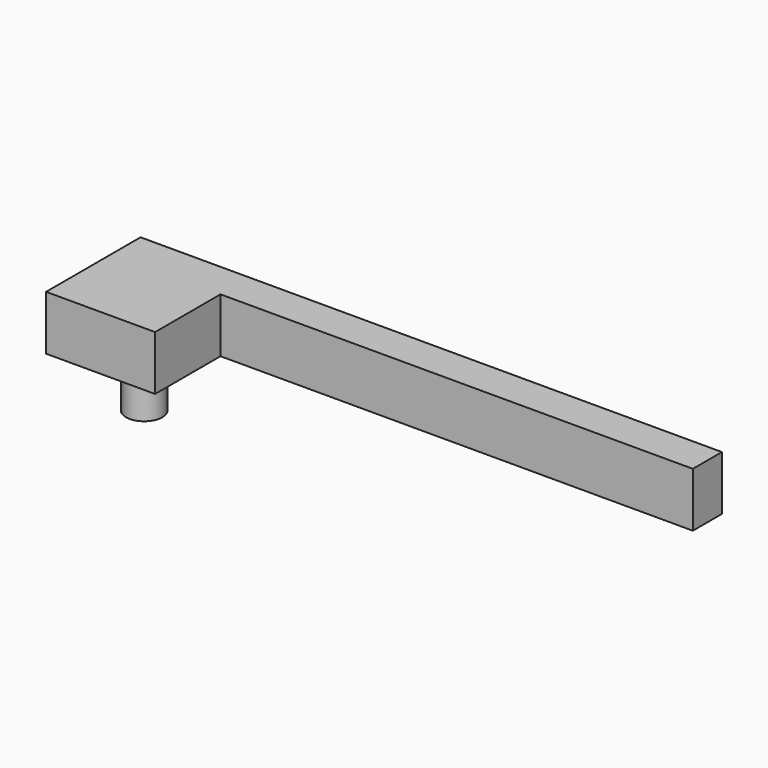
from build123d import *

# Parameters (mm, degrees)
F0_R     = 5
F0_W     = 130
F0_H     = 10
F1_DEPTH = 15
F2_DEPTH = 15


with BuildPart() as f1:
    # F0 (on Top) → F1 (new body)
    with BuildSketch(Plane.XY):
        Polygon((0, 32.5), (0, 0), (30, 0), (30, 22.5), (30, 32.5), align=None)
        with Locations((15, 15)):
            Circle(F0_R, mode=Mode.SUBTRACT)
        with Locations((95, 27.5)):
            Rectangle(F0_W, F0_H)
        with Locations((15, 15)):
            Circle(F0_R)
    extrude(amount=F1_DEPTH)

    # F0 (on Top) → F2 (join)
    with BuildSketch(Plane.XY):
        with Locations((15, 15)):
            Circle(F0_R)
    extrude(amount=-F2_DEPTH)


solid = f1.part
